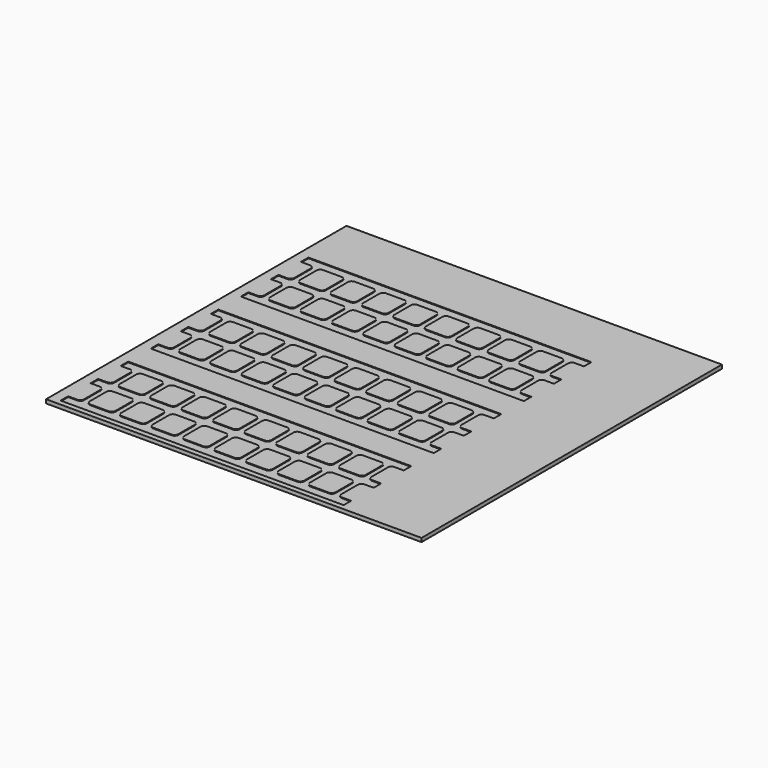
from build123d import *

# Parameters (mm, degrees)
F1_DEPTH = 0.4
F2_W     = 200
F2_H     = 200
F3_DEPTH = 2


with BuildPart() as f1:
    # F0 (on Top) → F1 (new body)
    with BuildSketch(Plane.XY):
        with BuildLine():
            ThreePointArc((20.25, 2.5), (18.835786, 3.085786), (18.25, 4.5))
            Line((18.25, 4.5), (18.25, 15.5))
            ThreePointArc((18.25, 15.5), (18.835786, 16.914214), (20.25, 17.5))
            Line((20.25, 17.5), (25.125, 17.5))
            Line((25.125, 17.5), (25.125, 22.5))
            Line((25.125, 22.5), (-25.125, 22.5))
            Line((-25.125, 22.5), (-25.125, 17.5))
            Line((-25.125, 17.5), (-20.25, 17.5))
            ThreePointArc((-20.25, 17.5), (-18.835786, 16.914214), (-18.25, 15.5))
            Line((-18.25, 15.5), (-18.25, 4.5))
            ThreePointArc((-18.25, 4.5), (-18.835786, 3.085786), (-20.25, 2.5))
            Line((-20.25, 2.5), (-25.125, 2.5))
            Line((-25.125, 2.5), (-25.125, -2.5))
            Line((-25.125, -2.5), (-20.25, -2.5))
            ThreePointArc((-20.25, -2.5), (-18.835786, -3.085786), (-18.25, -4.5))
            Line((-18.25, -4.5), (-18.25, -15.5))
            ThreePointArc((-18.25, -15.5), (-18.835786, -16.914214), (-20.25, -17.5))
            Line((-20.25, -17.5), (-25.125, -17.5))
            Line((-25.125, -17.5), (-25.125, -22.5))
            Line((-25.125, -22.5), (25.125, -22.5))
            Line((25.125, -22.5), (25.125, -17.5))
            Line((25.125, -17.5), (20.25, -17.5))
            ThreePointArc((20.25, -17.5), (18.835786, -16.914214), (18.25, -15.5))
            Line((18.25, -15.5), (18.25, -4.5))
            ThreePointArc((18.25, -4.5), (18.835786, -3.085786), (20.25, -2.5))
            Line((20.25, -2.5), (25.125, -2.5))
            Line((25.125, -2.5), (25.125, 2.5))
            Line((25.125, 2.5), (20.25, 2.5))
        make_face()
        with BuildLine():
            Line((-1.5, -4.5), (-1.5, -15.5))
            ThreePointArc((-1.5, -15.5), (-2.085786, -16.914214), (-3.5, -17.5))
            Line((-3.5, -17.5), (-13.25, -17.5))
            ThreePointArc((-13.25, -17.5), (-14.664214, -16.914214), (-15.25, -15.5))
            Line((-15.25, -15.5), (-15.25, -4.5))
            ThreePointArc((-15.25, -4.5), (-14.664214, -3.085786), (-13.25, -2.5))
            Line((-13.25, -2.5), (-3.5, -2.5))
            ThreePointArc((-3.5, -2.5), (-2.085786, -3.085786), (-1.5, -4.5))
        make_face(mode=Mode.SUBTRACT)
        with BuildLine():
            ThreePointArc((13.25, -2.5), (14.664214, -3.085786), (15.25, -4.5))
            Line((15.25, -4.5), (15.25, -15.5))
            ThreePointArc((15.25, -15.5), (14.664214, -16.914214), (13.25, -17.5))
            Line((13.25, -17.5), (3.5, -17.5))
            ThreePointArc((3.5, -17.5), (2.085786, -16.914214), (1.5, -15.5))
            Line((1.5, -15.5), (1.5, -4.5))
            ThreePointArc((1.5, -4.5), (2.085786, -3.085786), (3.5, -2.5))
            Line((3.5, -2.5), (13.25, -2.5))
        make_face(mode=Mode.SUBTRACT)
        with BuildLine():
            ThreePointArc((-1.5, 4.5), (-2.085786, 3.085786), (-3.5, 2.5))
            Line((-3.5, 2.5), (-13.25, 2.5))
            ThreePointArc((-13.25, 2.5), (-14.664214, 3.085786), (-15.25, 4.5))
            Line((-15.25, 4.5), (-15.25, 15.5))
            ThreePointArc((-15.25, 15.5), (-14.664214, 16.914214), (-13.25, 17.5))
            Line((-13.25, 17.5), (-3.5, 17.5))
            ThreePointArc((-3.5, 17.5), (-2.085786, 16.914214), (-1.5, 15.5))
            Line((-1.5, 15.5), (-1.5, 4.5))
        make_face(mode=Mode.SUBTRACT)
        with BuildLine():
            Line((15.25, 15.5), (15.25, 4.5))
            ThreePointArc((15.25, 4.5), (14.664214, 3.085786), (13.25, 2.5))
            Line((13.25, 2.5), (3.5, 2.5))
            ThreePointArc((3.5, 2.5), (2.085786, 3.085786), (1.5, 4.5))
            Line((1.5, 4.5), (1.5, 15.5))
            ThreePointArc((1.5, 15.5), (2.085786, 16.914214), (3.5, 17.5))
            Line((3.5, 17.5), (13.25, 17.5))
            ThreePointArc((13.25, 17.5), (14.664214, 16.914214), (15.25, 15.5))
        make_face(mode=Mode.SUBTRACT)
        with BuildLine():
            Line((30, 2.5), (25.125, 2.5))
            Line((25.125, 2.5), (25.125, -2.5))
            Line((25.125, -2.5), (30, -2.5))
            ThreePointArc((30, -2.5), (31.414214, -3.085786), (32, -4.5))
            Line((32, -4.5), (32, -15.5))
            ThreePointArc((32, -15.5), (31.414214, -16.914214), (30, -17.5))
            Line((30, -17.5), (25.125, -17.5))
            Line((25.125, -17.5), (25.125, -22.5))
            Line((25.125, -22.5), (75.375, -22.5))
            Line((75.375, -22.5), (75.375, -17.5))
            Line((75.375, -17.5), (70.5, -17.5))
            ThreePointArc((70.5, -17.5), (69.085786, -16.914214), (68.5, -15.5))
            Line((68.5, -15.5), (68.5, -4.5))
            ThreePointArc((68.5, -4.5), (69.085786, -3.085786), (70.5, -2.5))
            Line((70.5, -2.5), (75.375, -2.5))
            Line((75.375, -2.5), (75.375, 2.5))
            Line((75.375, 2.5), (70.5, 2.5))
            ThreePointArc((70.5, 2.5), (69.085786, 3.085786), (68.5, 4.5))
            Line((68.5, 4.5), (68.5, 15.5))
            ThreePointArc((68.5, 15.5), (69.085786, 16.914214), (70.5, 17.5))
            Line((70.5, 17.5), (75.375, 17.5))
            Line((75.375, 17.5), (75.375, 22.5))
            Line((75.375, 22.5), (25.125, 22.5))
            Line((25.125, 22.5), (25.125, 17.5))
            Line((25.125, 17.5), (30, 17.5))
            ThreePointArc((30, 17.5), (31.414214, 16.914214), (32, 15.5))
            Line((32, 15.5), (32, 4.5))
            ThreePointArc((32, 4.5), (31.414214, 3.085786), (30, 2.5))
        make_face()
        with BuildLine():
            ThreePointArc((48.75, -15.5), (48.164214, -16.914214), (46.75, -17.5))
            Line((46.75, -17.5), (37, -17.5))
            ThreePointArc((37, -17.5), (35.585786, -16.914214), (35, -15.5))
            Line((35, -15.5), (35, -4.5))
            ThreePointArc((35, -4.5), (35.585786, -3.085786), (37, -2.5))
            Line((37, -2.5), (46.75, -2.5))
            ThreePointArc((46.75, -2.5), (48.164214, -3.085786), (48.75, -4.5))
            Line((48.75, -4.5), (48.75, -15.5))
        make_face(mode=Mode.SUBTRACT)
        with BuildLine():
            ThreePointArc((37, 2.5), (35.585786, 3.085786), (35, 4.5))
            Line((35, 4.5), (35, 15.5))
            ThreePointArc((35, 15.5), (35.585786, 16.914214), (37, 17.5))
            Line((37, 17.5), (46.75, 17.5))
            ThreePointArc((46.75, 17.5), (48.164214, 16.914214), (48.75, 15.5))
            Line((48.75, 15.5), (48.75, 4.5))
            ThreePointArc((48.75, 4.5), (48.164214, 3.085786), (46.75, 2.5))
            Line((46.75, 2.5), (37, 2.5))
        make_face(mode=Mode.SUBTRACT)
        with BuildLine():
            Line((51.75, -15.5), (51.75, -4.5))
            ThreePointArc((51.75, -4.5), (52.335786, -3.085786), (53.75, -2.5))
            Line((53.75, -2.5), (63.5, -2.5))
            ThreePointArc((63.5, -2.5), (64.914214, -3.085786), (65.5, -4.5))
            Line((65.5, -4.5), (65.5, -15.5))
            ThreePointArc((65.5, -15.5), (64.914214, -16.914214), (63.5, -17.5))
            Line((63.5, -17.5), (53.75, -17.5))
            ThreePointArc((53.75, -17.5), (52.335786, -16.914214), (51.75, -15.5))
        make_face(mode=Mode.SUBTRACT)
        with BuildLine():
            Line((65.5, 15.5), (65.5, 4.5))
            ThreePointArc((65.5, 4.5), (64.914214, 3.085786), (63.5, 2.5))
            Line((63.5, 2.5), (53.75, 2.5))
            ThreePointArc((53.75, 2.5), (52.335786, 3.085786), (51.75, 4.5))
            Line((51.75, 4.5), (51.75, 15.5))
            ThreePointArc((51.75, 15.5), (52.335786, 16.914214), (53.75, 17.5))
            Line((53.75, 17.5), (63.5, 17.5))
            ThreePointArc((63.5, 17.5), (64.914214, 16.914214), (65.5, 15.5))
        make_face(mode=Mode.SUBTRACT)
        with BuildLine():
            Line((125.625, 22.5), (75.375, 22.5))
            Line((75.375, 22.5), (75.375, 17.5))
            Line((75.375, 17.5), (80.25, 17.5))
            ThreePointArc((80.25, 17.5), (81.664214, 16.914214), (82.25, 15.5))
            Line((82.25, 15.5), (82.25, 4.5))
            ThreePointArc((82.25, 4.5), (81.664214, 3.085786), (80.25, 2.5))
            Line((80.25, 2.5), (75.375, 2.5))
            Line((75.375, 2.5), (75.375, -2.5))
            Line((75.375, -2.5), (80.25, -2.5))
            ThreePointArc((80.25, -2.5), (81.664214, -3.085786), (82.25, -4.5))
            Line((82.25, -4.5), (82.25, -15.5))
            ThreePointArc((82.25, -15.5), (81.664214, -16.914214), (80.25, -17.5))
            Line((80.25, -17.5), (75.375, -17.5))
            Line((75.375, -17.5), (75.375, -22.5))
            Line((75.375, -22.5), (125.625, -22.5))
            Line((125.625, -22.5), (125.625, -17.5))
            Line((125.625, -17.5), (120.75, -17.5))
            ThreePointArc((120.75, -17.5), (119.335786, -16.914214), (118.75, -15.5))
            Line((118.75, -15.5), (118.75, -4.5))
            ThreePointArc((118.75, -4.5), (119.335786, -3.085786), (120.75, -2.5))
            Line((120.75, -2.5), (125.625, -2.5))
            Line((125.625, -2.5), (125.625, 2.5))
            Line((125.625, 2.5), (120.75, 2.5))
            ThreePointArc((120.75, 2.5), (119.335786, 3.085786), (118.75, 4.5))
            Line((118.75, 4.5), (118.75, 15.5))
            ThreePointArc((118.75, 15.5), (119.335786, 16.914214), (120.75, 17.5))
            Line((120.75, 17.5), (125.625, 17.5))
            Line((125.625, 17.5), (125.625, 22.5))
        make_face()
        with BuildLine():
            ThreePointArc((99, -15.5), (98.414214, -16.914214), (97, -17.5))
            Line((97, -17.5), (87.25, -17.5))
            ThreePointArc((87.25, -17.5), (85.835786, -16.914214), (85.25, -15.5))
            Line((85.25, -15.5), (85.25, -4.5))
            ThreePointArc((85.25, -4.5), (85.835786, -3.085786), (87.25, -2.5))
            Line((87.25, -2.5), (97, -2.5))
            ThreePointArc((97, -2.5), (98.414214, -3.085786), (99, -4.5))
            Line((99, -4.5), (99, -15.5))
        make_face(mode=Mode.SUBTRACT)
        with BuildLine():
            Line((102, -15.5), (102, -4.5))
            ThreePointArc((102, -4.5), (102.585786, -3.085786), (104, -2.5))
            Line((104, -2.5), (113.75, -2.5))
            ThreePointArc((113.75, -2.5), (115.164214, -3.085786), (115.75, -4.5))
            Line((115.75, -4.5), (115.75, -15.5))
            ThreePointArc((115.75, -15.5), (115.164214, -16.914214), (113.75, -17.5))
            Line((113.75, -17.5), (104, -17.5))
            ThreePointArc((104, -17.5), (102.585786, -16.914214), (102, -15.5))
        make_face(mode=Mode.SUBTRACT)
        with BuildLine():
            ThreePointArc((87.25, 2.5), (85.835786, 3.085786), (85.25, 4.5))
            Line((85.25, 4.5), (85.25, 15.5))
            ThreePointArc((85.25, 15.5), (85.835786, 16.914214), (87.25, 17.5))
            Line((87.25, 17.5), (97, 17.5))
            ThreePointArc((97, 17.5), (98.414214, 16.914214), (99, 15.5))
            Line((99, 15.5), (99, 4.5))
            ThreePointArc((99, 4.5), (98.414214, 3.085786), (97, 2.5))
            Line((97, 2.5), (87.25, 2.5))
        make_face(mode=Mode.SUBTRACT)
        with BuildLine():
            Line((115.75, 15.5), (115.75, 4.5))
            ThreePointArc((115.75, 4.5), (115.164214, 3.085786), (113.75, 2.5))
            Line((113.75, 2.5), (104, 2.5))
            ThreePointArc((104, 2.5), (102.585786, 3.085786), (102, 4.5))
            Line((102, 4.5), (102, 15.5))
            ThreePointArc((102, 15.5), (102.585786, 16.914214), (104, 17.5))
            Line((104, 17.5), (113.75, 17.5))
            ThreePointArc((113.75, 17.5), (115.164214, 16.914214), (115.75, 15.5))
        make_face(mode=Mode.SUBTRACT)
        with BuildLine():
            Line((-20.25, 62.5), (-25.125, 62.5))
            Line((-25.125, 62.5), (-25.125, 57.5))
            Line((-25.125, 57.5), (-20.25, 57.5))
            ThreePointArc((-20.25, 57.5), (-18.835786, 56.914214), (-18.25, 55.5))
            Line((-18.25, 55.5), (-18.25, 44.5))
            ThreePointArc((-18.25, 44.5), (-18.835786, 43.085786), (-20.25, 42.5))
            Line((-20.25, 42.5), (-25.125, 42.5))
            Line((-25.125, 42.5), (-25.125, 37.5))
            Line((-25.125, 37.5), (25.125, 37.5))
            Line((25.125, 37.5), (25.125, 42.5))
            Line((25.125, 42.5), (20.25, 42.5))
            ThreePointArc((20.25, 42.5), (18.835786, 43.085786), (18.25, 44.5))
            Line((18.25, 44.5), (18.25, 55.5))
            ThreePointArc((18.25, 55.5), (18.835786, 56.914214), (20.25, 57.5))
            Line((20.25, 57.5), (25.125, 57.5))
            Line((25.125, 57.5), (25.125, 62.5))
            Line((25.125, 62.5), (20.25, 62.5))
            ThreePointArc((20.25, 62.5), (18.835786, 63.085786), (18.25, 64.5))
            Line((18.25, 64.5), (18.25, 75.5))
            ThreePointArc((18.25, 75.5), (18.835786, 76.914214), (20.25, 77.5))
            Line((20.25, 77.5), (25.125, 77.5))
            Line((25.125, 77.5), (25.125, 82.5))
            Line((25.125, 82.5), (-25.125, 82.5))
            Line((-25.125, 82.5), (-25.125, 77.5))
            Line((-25.125, 77.5), (-20.25, 77.5))
            ThreePointArc((-20.25, 77.5), (-18.835786, 76.914214), (-18.25, 75.5))
            Line((-18.25, 75.5), (-18.25, 64.5))
            ThreePointArc((-18.25, 64.5), (-18.835786, 63.085786), (-20.25, 62.5))
        make_face()
        with BuildLine():
            ThreePointArc((-1.5, 44.5), (-2.085786, 43.085786), (-3.5, 42.5))
            Line((-3.5, 42.5), (-13.25, 42.5))
            ThreePointArc((-13.25, 42.5), (-14.664214, 43.085786), (-15.25, 44.5))
            Line((-15.25, 44.5), (-15.25, 55.5))
            ThreePointArc((-15.25, 55.5), (-14.664214, 56.914214), (-13.25, 57.5))
            Line((-13.25, 57.5), (-3.5, 57.5))
            ThreePointArc((-3.5, 57.5), (-2.085786, 56.914214), (-1.5, 55.5))
            Line((-1.5, 55.5), (-1.5, 44.5))
        make_face(mode=Mode.SUBTRACT)
        with BuildLine():
            Line((1.5, 44.5), (1.5, 55.5))
            ThreePointArc((1.5, 55.5), (2.085786, 56.914214), (3.5, 57.5))
            Line((3.5, 57.5), (13.25, 57.5))
            ThreePointArc((13.25, 57.5), (14.664214, 56.914214), (15.25, 55.5))
            Line((15.25, 55.5), (15.25, 44.5))
            ThreePointArc((15.25, 44.5), (14.664214, 43.085786), (13.25, 42.5))
            Line((13.25, 42.5), (3.5, 42.5))
            ThreePointArc((3.5, 42.5), (2.085786, 43.085786), (1.5, 44.5))
        make_face(mode=Mode.SUBTRACT)
        with BuildLine():
            ThreePointArc((-13.25, 62.5), (-14.664214, 63.085786), (-15.25, 64.5))
            Line((-15.25, 64.5), (-15.25, 75.5))
            ThreePointArc((-15.25, 75.5), (-14.664214, 76.914214), (-13.25, 77.5))
            Line((-13.25, 77.5), (-3.5, 77.5))
            ThreePointArc((-3.5, 77.5), (-2.085786, 76.914214), (-1.5, 75.5))
            Line((-1.5, 75.5), (-1.5, 64.5))
            ThreePointArc((-1.5, 64.5), (-2.085786, 63.085786), (-3.5, 62.5))
            Line((-3.5, 62.5), (-13.25, 62.5))
        make_face(mode=Mode.SUBTRACT)
        with BuildLine():
            Line((15.25, 75.5), (15.25, 64.5))
            ThreePointArc((15.25, 64.5), (14.664214, 63.085786), (13.25, 62.5))
            Line((13.25, 62.5), (3.5, 62.5))
            ThreePointArc((3.5, 62.5), (2.085786, 63.085786), (1.5, 64.5))
            Line((1.5, 64.5), (1.5, 75.5))
            ThreePointArc((1.5, 75.5), (2.085786, 76.914214), (3.5, 77.5))
            Line((3.5, 77.5), (13.25, 77.5))
            ThreePointArc((13.25, 77.5), (14.664214, 76.914214), (15.25, 75.5))
        make_face(mode=Mode.SUBTRACT)
        with BuildLine():
            Line((75.375, 82.5), (25.125, 82.5))
            Line((25.125, 82.5), (25.125, 77.5))
            Line((25.125, 77.5), (30, 77.5))
            ThreePointArc((30, 77.5), (31.414214, 76.914214), (32, 75.5))
            Line((32, 75.5), (32, 64.5))
            ThreePointArc((32, 64.5), (31.414214, 63.085786), (30, 62.5))
            Line((30, 62.5), (25.125, 62.5))
            Line((25.125, 62.5), (25.125, 57.5))
            Line((25.125, 57.5), (30, 57.5))
            ThreePointArc((30, 57.5), (31.414214, 56.914214), (32, 55.5))
            Line((32, 55.5), (32, 44.5))
            ThreePointArc((32, 44.5), (31.414214, 43.085786), (30, 42.5))
            Line((30, 42.5), (25.125, 42.5))
            Line((25.125, 42.5), (25.125, 37.5))
            Line((25.125, 37.5), (75.375, 37.5))
            Line((75.375, 37.5), (75.375, 42.5))
            Line((75.375, 42.5), (70.5, 42.5))
            ThreePointArc((70.5, 42.5), (69.085786, 43.085786), (68.5, 44.5))
            Line((68.5, 44.5), (68.5, 55.5))
            ThreePointArc((68.5, 55.5), (69.085786, 56.914214), (70.5, 57.5))
            Line((70.5, 57.5), (75.375, 57.5))
            Line((75.375, 57.5), (75.375, 62.5))
            Line((75.375, 62.5), (70.5, 62.5))
            ThreePointArc((70.5, 62.5), (69.085786, 63.085786), (68.5, 64.5))
            Line((68.5, 64.5), (68.5, 75.5))
            ThreePointArc((68.5, 75.5), (69.085786, 76.914214), (70.5, 77.5))
            Line((70.5, 77.5), (75.375, 77.5))
            Line((75.375, 77.5), (75.375, 82.5))
        make_face()
        with BuildLine():
            ThreePointArc((48.75, 44.5), (48.164214, 43.085786), (46.75, 42.5))
            Line((46.75, 42.5), (37, 42.5))
            ThreePointArc((37, 42.5), (35.585786, 43.085786), (35, 44.5))
            Line((35, 44.5), (35, 55.5))
            ThreePointArc((35, 55.5), (35.585786, 56.914214), (37, 57.5))
            Line((37, 57.5), (46.75, 57.5))
            ThreePointArc((46.75, 57.5), (48.164214, 56.914214), (48.75, 55.5))
            Line((48.75, 55.5), (48.75, 44.5))
        make_face(mode=Mode.SUBTRACT)
        with BuildLine():
            Line((51.75, 44.5), (51.75, 55.5))
            ThreePointArc((51.75, 55.5), (52.335786, 56.914214), (53.75, 57.5))
            Line((53.75, 57.5), (63.5, 57.5))
            ThreePointArc((63.5, 57.5), (64.914214, 56.914214), (65.5, 55.5))
            Line((65.5, 55.5), (65.5, 44.5))
            ThreePointArc((65.5, 44.5), (64.914214, 43.085786), (63.5, 42.5))
            Line((63.5, 42.5), (53.75, 42.5))
            ThreePointArc((53.75, 42.5), (52.335786, 43.085786), (51.75, 44.5))
        make_face(mode=Mode.SUBTRACT)
        with BuildLine():
            ThreePointArc((37, 62.5), (35.585786, 63.085786), (35, 64.5))
            Line((35, 64.5), (35, 75.5))
            ThreePointArc((35, 75.5), (35.585786, 76.914214), (37, 77.5))
            Line((37, 77.5), (46.75, 77.5))
            ThreePointArc((46.75, 77.5), (48.164214, 76.914214), (48.75, 75.5))
            Line((48.75, 75.5), (48.75, 64.5))
            ThreePointArc((48.75, 64.5), (48.164214, 63.085786), (46.75, 62.5))
            Line((46.75, 62.5), (37, 62.5))
        make_face(mode=Mode.SUBTRACT)
        with BuildLine():
            Line((65.5, 75.5), (65.5, 64.5))
            ThreePointArc((65.5, 64.5), (64.914214, 63.085786), (63.5, 62.5))
            Line((63.5, 62.5), (53.75, 62.5))
            ThreePointArc((53.75, 62.5), (52.335786, 63.085786), (51.75, 64.5))
            Line((51.75, 64.5), (51.75, 75.5))
            ThreePointArc((51.75, 75.5), (52.335786, 76.914214), (53.75, 77.5))
            Line((53.75, 77.5), (63.5, 77.5))
            ThreePointArc((63.5, 77.5), (64.914214, 76.914214), (65.5, 75.5))
        make_face(mode=Mode.SUBTRACT)
        with BuildLine():
            Line((125.625, 82.5), (75.375, 82.5))
            Line((75.375, 82.5), (75.375, 77.5))
            Line((75.375, 77.5), (80.25, 77.5))
            ThreePointArc((80.25, 77.5), (81.664214, 76.914214), (82.25, 75.5))
            Line((82.25, 75.5), (82.25, 64.5))
            ThreePointArc((82.25, 64.5), (81.664214, 63.085786), (80.25, 62.5))
            Line((80.25, 62.5), (75.375, 62.5))
            Line((75.375, 62.5), (75.375, 57.5))
            Line((75.375, 57.5), (80.25, 57.5))
            ThreePointArc((80.25, 57.5), (81.664214, 56.914214), (82.25, 55.5))
            Line((82.25, 55.5), (82.25, 44.5))
            ThreePointArc((82.25, 44.5), (81.664214, 43.085786), (80.25, 42.5))
            Line((80.25, 42.5), (75.375, 42.5))
            Line((75.375, 42.5), (75.375, 37.5))
            Line((75.375, 37.5), (125.625, 37.5))
            Line((125.625, 37.5), (125.625, 42.5))
            Line((125.625, 42.5), (120.75, 42.5))
            ThreePointArc((120.75, 42.5), (119.335786, 43.085786), (118.75, 44.5))
            Line((118.75, 44.5), (118.75, 55.5))
            ThreePointArc((118.75, 55.5), (119.335786, 56.914214), (120.75, 57.5))
            Line((120.75, 57.5), (125.625, 57.5))
            Line((125.625, 57.5), (125.625, 62.5))
            Line((125.625, 62.5), (120.75, 62.5))
            ThreePointArc((120.75, 62.5), (119.335786, 63.085786), (118.75, 64.5))
            Line((118.75, 64.5), (118.75, 75.5))
            ThreePointArc((118.75, 75.5), (119.335786, 76.914214), (120.75, 77.5))
            Line((120.75, 77.5), (125.625, 77.5))
            Line((125.625, 77.5), (125.625, 82.5))
        make_face()
        with BuildLine():
            ThreePointArc((99, 44.5), (98.414214, 43.085786), (97, 42.5))
            Line((97, 42.5), (87.25, 42.5))
            ThreePointArc((87.25, 42.5), (85.835786, 43.085786), (85.25, 44.5))
            Line((85.25, 44.5), (85.25, 55.5))
            ThreePointArc((85.25, 55.5), (85.835786, 56.914214), (87.25, 57.5))
            Line((87.25, 57.5), (97, 57.5))
            ThreePointArc((97, 57.5), (98.414214, 56.914214), (99, 55.5))
            Line((99, 55.5), (99, 44.5))
        make_face(mode=Mode.SUBTRACT)
        with BuildLine():
            Line((102, 44.5), (102, 55.5))
            ThreePointArc((102, 55.5), (102.585786, 56.914214), (104, 57.5))
            Line((104, 57.5), (113.75, 57.5))
            ThreePointArc((113.75, 57.5), (115.164214, 56.914214), (115.75, 55.5))
            Line((115.75, 55.5), (115.75, 44.5))
            ThreePointArc((115.75, 44.5), (115.164214, 43.085786), (113.75, 42.5))
            Line((113.75, 42.5), (104, 42.5))
            ThreePointArc((104, 42.5), (102.585786, 43.085786), (102, 44.5))
        make_face(mode=Mode.SUBTRACT)
        with BuildLine():
            ThreePointArc((87.25, 62.5), (85.835786, 63.085786), (85.25, 64.5))
            Line((85.25, 64.5), (85.25, 75.5))
            ThreePointArc((85.25, 75.5), (85.835786, 76.914214), (87.25, 77.5))
            Line((87.25, 77.5), (97, 77.5))
            ThreePointArc((97, 77.5), (98.414214, 76.914214), (99, 75.5))
            Line((99, 75.5), (99, 64.5))
            ThreePointArc((99, 64.5), (98.414214, 63.085786), (97, 62.5))
            Line((97, 62.5), (87.25, 62.5))
        make_face(mode=Mode.SUBTRACT)
        with BuildLine():
            Line((115.75, 75.5), (115.75, 64.5))
            ThreePointArc((115.75, 64.5), (115.164214, 63.085786), (113.75, 62.5))
            Line((113.75, 62.5), (104, 62.5))
            ThreePointArc((104, 62.5), (102.585786, 63.085786), (102, 64.5))
            Line((102, 64.5), (102, 75.5))
            ThreePointArc((102, 75.5), (102.585786, 76.914214), (104, 77.5))
            Line((104, 77.5), (113.75, 77.5))
            ThreePointArc((113.75, 77.5), (115.164214, 76.914214), (115.75, 75.5))
        make_face(mode=Mode.SUBTRACT)
        with BuildLine():
            Line((-20.25, 122.5), (-25.125, 122.5))
            Line((-25.125, 122.5), (-25.125, 117.5))
            Line((-25.125, 117.5), (-20.25, 117.5))
            ThreePointArc((-20.25, 117.5), (-18.835786, 116.914214), (-18.25, 115.5))
            Line((-18.25, 115.5), (-18.25, 104.5))
            ThreePointArc((-18.25, 104.5), (-18.835786, 103.085786), (-20.25, 102.5))
            Line((-20.25, 102.5), (-25.125, 102.5))
            Line((-25.125, 102.5), (-25.125, 97.5))
            Line((-25.125, 97.5), (25.125, 97.5))
            Line((25.125, 97.5), (25.125, 102.5))
            Line((25.125, 102.5), (20.25, 102.5))
            ThreePointArc((20.25, 102.5), (18.835786, 103.085786), (18.25, 104.5))
            Line((18.25, 104.5), (18.25, 115.5))
            ThreePointArc((18.25, 115.5), (18.835786, 116.914214), (20.25, 117.5))
            Line((20.25, 117.5), (25.125, 117.5))
            Line((25.125, 117.5), (25.125, 122.5))
            Line((25.125, 122.5), (20.25, 122.5))
            ThreePointArc((20.25, 122.5), (18.835786, 123.085786), (18.25, 124.5))
            Line((18.25, 124.5), (18.25, 135.5))
            ThreePointArc((18.25, 135.5), (18.835786, 136.914214), (20.25, 137.5))
            Line((20.25, 137.5), (25.125, 137.5))
            Line((25.125, 137.5), (25.125, 142.5))
            Line((25.125, 142.5), (-25.125, 142.5))
            Line((-25.125, 142.5), (-25.125, 137.5))
            Line((-25.125, 137.5), (-20.25, 137.5))
            ThreePointArc((-20.25, 137.5), (-18.835786, 136.914214), (-18.25, 135.5))
            Line((-18.25, 135.5), (-18.25, 124.5))
            ThreePointArc((-18.25, 124.5), (-18.835786, 123.085786), (-20.25, 122.5))
        make_face()
        with BuildLine():
            ThreePointArc((-1.5, 104.5), (-2.085786, 103.085786), (-3.5, 102.5))
            Line((-3.5, 102.5), (-13.25, 102.5))
            ThreePointArc((-13.25, 102.5), (-14.664214, 103.085786), (-15.25, 104.5))
            Line((-15.25, 104.5), (-15.25, 115.5))
            ThreePointArc((-15.25, 115.5), (-14.664214, 116.914214), (-13.25, 117.5))
            Line((-13.25, 117.5), (-3.5, 117.5))
            ThreePointArc((-3.5, 117.5), (-2.085786, 116.914214), (-1.5, 115.5))
            Line((-1.5, 115.5), (-1.5, 104.5))
        make_face(mode=Mode.SUBTRACT)
        with BuildLine():
            Line((1.5, 104.5), (1.5, 115.5))
            ThreePointArc((1.5, 115.5), (2.085786, 116.914214), (3.5, 117.5))
            Line((3.5, 117.5), (13.25, 117.5))
            ThreePointArc((13.25, 117.5), (14.664214, 116.914214), (15.25, 115.5))
            Line((15.25, 115.5), (15.25, 104.5))
            ThreePointArc((15.25, 104.5), (14.664214, 103.085786), (13.25, 102.5))
            Line((13.25, 102.5), (3.5, 102.5))
            ThreePointArc((3.5, 102.5), (2.085786, 103.085786), (1.5, 104.5))
        make_face(mode=Mode.SUBTRACT)
        with BuildLine():
            ThreePointArc((-13.25, 122.5), (-14.664214, 123.085786), (-15.25, 124.5))
            Line((-15.25, 124.5), (-15.25, 135.5))
            ThreePointArc((-15.25, 135.5), (-14.664214, 136.914214), (-13.25, 137.5))
            Line((-13.25, 137.5), (-3.5, 137.5))
            ThreePointArc((-3.5, 137.5), (-2.085786, 136.914214), (-1.5, 135.5))
            Line((-1.5, 135.5), (-1.5, 124.5))
            ThreePointArc((-1.5, 124.5), (-2.085786, 123.085786), (-3.5, 122.5))
            Line((-3.5, 122.5), (-13.25, 122.5))
        make_face(mode=Mode.SUBTRACT)
        with BuildLine():
            Line((15.25, 135.5), (15.25, 124.5))
            ThreePointArc((15.25, 124.5), (14.664214, 123.085786), (13.25, 122.5))
            Line((13.25, 122.5), (3.5, 122.5))
            ThreePointArc((3.5, 122.5), (2.085786, 123.085786), (1.5, 124.5))
            Line((1.5, 124.5), (1.5, 135.5))
            ThreePointArc((1.5, 135.5), (2.085786, 136.914214), (3.5, 137.5))
            Line((3.5, 137.5), (13.25, 137.5))
            ThreePointArc((13.25, 137.5), (14.664214, 136.914214), (15.25, 135.5))
        make_face(mode=Mode.SUBTRACT)
        with BuildLine():
            Line((75.375, 142.5), (25.125, 142.5))
            Line((25.125, 142.5), (25.125, 137.5))
            Line((25.125, 137.5), (30, 137.5))
            ThreePointArc((30, 137.5), (31.414214, 136.914214), (32, 135.5))
            Line((32, 135.5), (32, 124.5))
            ThreePointArc((32, 124.5), (31.414214, 123.085786), (30, 122.5))
            Line((30, 122.5), (25.125, 122.5))
            Line((25.125, 122.5), (25.125, 117.5))
            Line((25.125, 117.5), (30, 117.5))
            ThreePointArc((30, 117.5), (31.414214, 116.914214), (32, 115.5))
            Line((32, 115.5), (32, 104.5))
            ThreePointArc((32, 104.5), (31.414214, 103.085786), (30, 102.5))
            Line((30, 102.5), (25.125, 102.5))
            Line((25.125, 102.5), (25.125, 97.5))
            Line((25.125, 97.5), (75.375, 97.5))
            Line((75.375, 97.5), (75.375, 102.5))
            Line((75.375, 102.5), (70.5, 102.5))
            ThreePointArc((70.5, 102.5), (69.085786, 103.085786), (68.5, 104.5))
            Line((68.5, 104.5), (68.5, 115.5))
            ThreePointArc((68.5, 115.5), (69.085786, 116.914214), (70.5, 117.5))
            Line((70.5, 117.5), (75.375, 117.5))
            Line((75.375, 117.5), (75.375, 122.5))
            Line((75.375, 122.5), (70.5, 122.5))
            ThreePointArc((70.5, 122.5), (69.085786, 123.085786), (68.5, 124.5))
            Line((68.5, 124.5), (68.5, 135.5))
            ThreePointArc((68.5, 135.5), (69.085786, 136.914214), (70.5, 137.5))
            Line((70.5, 137.5), (75.375, 137.5))
            Line((75.375, 137.5), (75.375, 142.5))
        make_face()
        with BuildLine():
            ThreePointArc((48.75, 104.5), (48.164214, 103.085786), (46.75, 102.5))
            Line((46.75, 102.5), (37, 102.5))
            ThreePointArc((37, 102.5), (35.585786, 103.085786), (35, 104.5))
            Line((35, 104.5), (35, 115.5))
            ThreePointArc((35, 115.5), (35.585786, 116.914214), (37, 117.5))
            Line((37, 117.5), (46.75, 117.5))
            ThreePointArc((46.75, 117.5), (48.164214, 116.914214), (48.75, 115.5))
            Line((48.75, 115.5), (48.75, 104.5))
        make_face(mode=Mode.SUBTRACT)
        with BuildLine():
            ThreePointArc((37, 122.5), (35.585786, 123.085786), (35, 124.5))
            Line((35, 124.5), (35, 135.5))
            ThreePointArc((35, 135.5), (35.585786, 136.914214), (37, 137.5))
            Line((37, 137.5), (46.75, 137.5))
            ThreePointArc((46.75, 137.5), (48.164214, 136.914214), (48.75, 135.5))
            Line((48.75, 135.5), (48.75, 124.5))
            ThreePointArc((48.75, 124.5), (48.164214, 123.085786), (46.75, 122.5))
            Line((46.75, 122.5), (37, 122.5))
        make_face(mode=Mode.SUBTRACT)
        with BuildLine():
            Line((51.75, 104.5), (51.75, 115.5))
            ThreePointArc((51.75, 115.5), (52.335786, 116.914214), (53.75, 117.5))
            Line((53.75, 117.5), (63.5, 117.5))
            ThreePointArc((63.5, 117.5), (64.914214, 116.914214), (65.5, 115.5))
            Line((65.5, 115.5), (65.5, 104.5))
            ThreePointArc((65.5, 104.5), (64.914214, 103.085786), (63.5, 102.5))
            Line((63.5, 102.5), (53.75, 102.5))
            ThreePointArc((53.75, 102.5), (52.335786, 103.085786), (51.75, 104.5))
        make_face(mode=Mode.SUBTRACT)
        with BuildLine():
            Line((65.5, 135.5), (65.5, 124.5))
            ThreePointArc((65.5, 124.5), (64.914214, 123.085786), (63.5, 122.5))
            Line((63.5, 122.5), (53.75, 122.5))
            ThreePointArc((53.75, 122.5), (52.335786, 123.085786), (51.75, 124.5))
            Line((51.75, 124.5), (51.75, 135.5))
            ThreePointArc((51.75, 135.5), (52.335786, 136.914214), (53.75, 137.5))
            Line((53.75, 137.5), (63.5, 137.5))
            ThreePointArc((63.5, 137.5), (64.914214, 136.914214), (65.5, 135.5))
        make_face(mode=Mode.SUBTRACT)
        with BuildLine():
            Line((125.625, 142.5), (75.375, 142.5))
            Line((75.375, 142.5), (75.375, 137.5))
            Line((75.375, 137.5), (80.25, 137.5))
            ThreePointArc((80.25, 137.5), (81.664214, 136.914214), (82.25, 135.5))
            Line((82.25, 135.5), (82.25, 124.5))
            ThreePointArc((82.25, 124.5), (81.664214, 123.085786), (80.25, 122.5))
            Line((80.25, 122.5), (75.375, 122.5))
            Line((75.375, 122.5), (75.375, 117.5))
            Line((75.375, 117.5), (80.25, 117.5))
            ThreePointArc((80.25, 117.5), (81.664214, 116.914214), (82.25, 115.5))
            Line((82.25, 115.5), (82.25, 104.5))
            ThreePointArc((82.25, 104.5), (81.664214, 103.085786), (80.25, 102.5))
            Line((80.25, 102.5), (75.375, 102.5))
            Line((75.375, 102.5), (75.375, 97.5))
            Line((75.375, 97.5), (125.625, 97.5))
            Line((125.625, 97.5), (125.625, 102.5))
            Line((125.625, 102.5), (120.75, 102.5))
            ThreePointArc((120.75, 102.5), (119.335786, 103.085786), (118.75, 104.5))
            Line((118.75, 104.5), (118.75, 115.5))
            ThreePointArc((118.75, 115.5), (119.335786, 116.914214), (120.75, 117.5))
            Line((120.75, 117.5), (125.625, 117.5))
            Line((125.625, 117.5), (125.625, 122.5))
            Line((125.625, 122.5), (120.75, 122.5))
            ThreePointArc((120.75, 122.5), (119.335786, 123.085786), (118.75, 124.5))
            Line((118.75, 124.5), (118.75, 135.5))
            ThreePointArc((118.75, 135.5), (119.335786, 136.914214), (120.75, 137.5))
            Line((120.75, 137.5), (125.625, 137.5))
            Line((125.625, 137.5), (125.625, 142.5))
        make_face()
        with BuildLine():
            ThreePointArc((99, 104.5), (98.414214, 103.085786), (97, 102.5))
            Line((97, 102.5), (87.25, 102.5))
            ThreePointArc((87.25, 102.5), (85.835786, 103.085786), (85.25, 104.5))
            Line((85.25, 104.5), (85.25, 115.5))
            ThreePointArc((85.25, 115.5), (85.835786, 116.914214), (87.25, 117.5))
            Line((87.25, 117.5), (97, 117.5))
            ThreePointArc((97, 117.5), (98.414214, 116.914214), (99, 115.5))
            Line((99, 115.5), (99, 104.5))
        make_face(mode=Mode.SUBTRACT)
        with BuildLine():
            Line((102, 104.5), (102, 115.5))
            ThreePointArc((102, 115.5), (102.585786, 116.914214), (104, 117.5))
            Line((104, 117.5), (113.75, 117.5))
            ThreePointArc((113.75, 117.5), (115.164214, 116.914214), (115.75, 115.5))
            Line((115.75, 115.5), (115.75, 104.5))
            ThreePointArc((115.75, 104.5), (115.164214, 103.085786), (113.75, 102.5))
            Line((113.75, 102.5), (104, 102.5))
            ThreePointArc((104, 102.5), (102.585786, 103.085786), (102, 104.5))
        make_face(mode=Mode.SUBTRACT)
        with BuildLine():
            ThreePointArc((87.25, 122.5), (85.835786, 123.085786), (85.25, 124.5))
            Line((85.25, 124.5), (85.25, 135.5))
            ThreePointArc((85.25, 135.5), (85.835786, 136.914214), (87.25, 137.5))
            Line((87.25, 137.5), (97, 137.5))
            ThreePointArc((97, 137.5), (98.414214, 136.914214), (99, 135.5))
            Line((99, 135.5), (99, 124.5))
            ThreePointArc((99, 124.5), (98.414214, 123.085786), (97, 122.5))
            Line((97, 122.5), (87.25, 122.5))
        make_face(mode=Mode.SUBTRACT)
        with BuildLine():
            Line((115.75, 135.5), (115.75, 124.5))
            ThreePointArc((115.75, 124.5), (115.164214, 123.085786), (113.75, 122.5))
            Line((113.75, 122.5), (104, 122.5))
            ThreePointArc((104, 122.5), (102.585786, 123.085786), (102, 124.5))
            Line((102, 124.5), (102, 135.5))
            ThreePointArc((102, 135.5), (102.585786, 136.914214), (104, 137.5))
            Line((104, 137.5), (113.75, 137.5))
            ThreePointArc((113.75, 137.5), (115.164214, 136.914214), (115.75, 135.5))
        make_face(mode=Mode.SUBTRACT)
    extrude(amount=F1_DEPTH)


with BuildPart() as f3:
    # F2 (on Top) → F3 (new body)
    with BuildSketch(Plane.XY):
        with Locations((69.376776, 74.676897)):
            Rectangle(F2_W, F2_H)
    extrude(amount=-F3_DEPTH)


with BuildPart() as f3_1:
    # F4: moved
    add(f3.part.moved(Location((0, 0, 0.4))))

    # F5: cut F1
    add(f1.part, mode=Mode.SUBTRACT)


solid = f3_1.part
